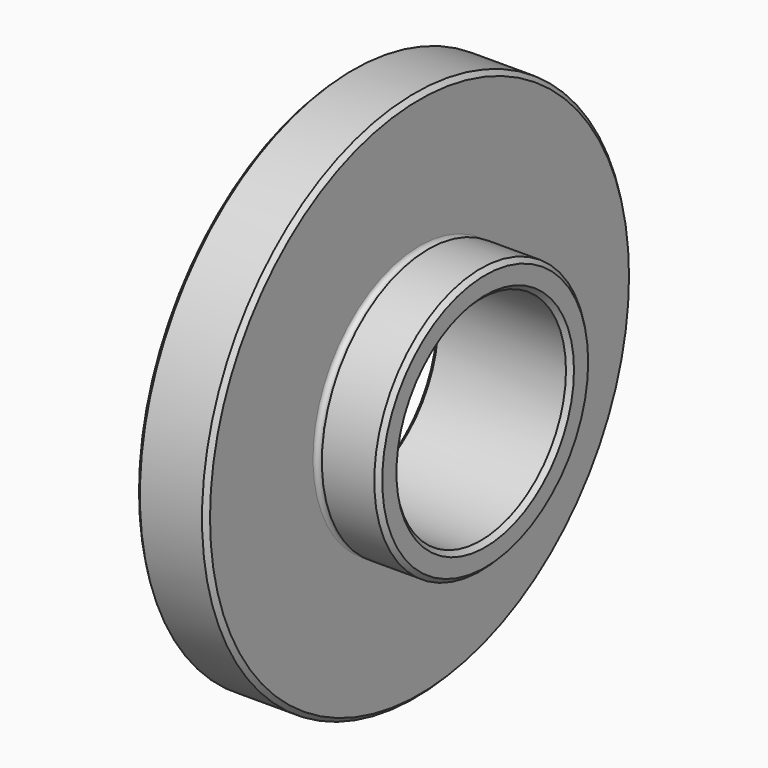
from build123d import *

# Parameters (mm, degrees)
F0_R     = 15
F0_R_2   = 7.5
F1_DEPTH = 4
F0_R_3   = 6
F2_DEPTH = 7.7
F3_SIZE  = 0.25


with BuildPart() as f1:
    # F0 (on Right) → F1 (new body)
    with BuildSketch(Plane.YZ):
        Circle(F0_R)
        Circle(F0_R_2, mode=Mode.SUBTRACT)
    extrude(amount=F1_DEPTH)

    # F0 (on Right) → F2 (join)
    with BuildSketch(Plane.YZ):
        Circle(F0_R_2)
        Circle(F0_R_3, mode=Mode.SUBTRACT)
    extrude(amount=F2_DEPTH)

    # F3
    f3_edges = [f1.edges().sort_by_distance(p)[0] for p in [
        (0, -15, 0),
        (0, -6, 0),
        (4, -15, 0),
        (7.7, -7.5, 0),
        (7.7, -6, 0),
    ]]
    chamfer(f3_edges, length=F3_SIZE)

    # F4 (on Front) → F5 (revolve, cut)
    with BuildSketch(Plane.XZ):
        with BuildLine():
            Line((4.5, 7.5), (4, 7.5))
            ThreePointArc((4, 7.5), (4.25, 7.291997), (4.5, 7.5))
        make_face()
    revolve(axis=Axis((2, 0, 0), (1, 0, 0)), mode=Mode.SUBTRACT)


solid = f1.part
